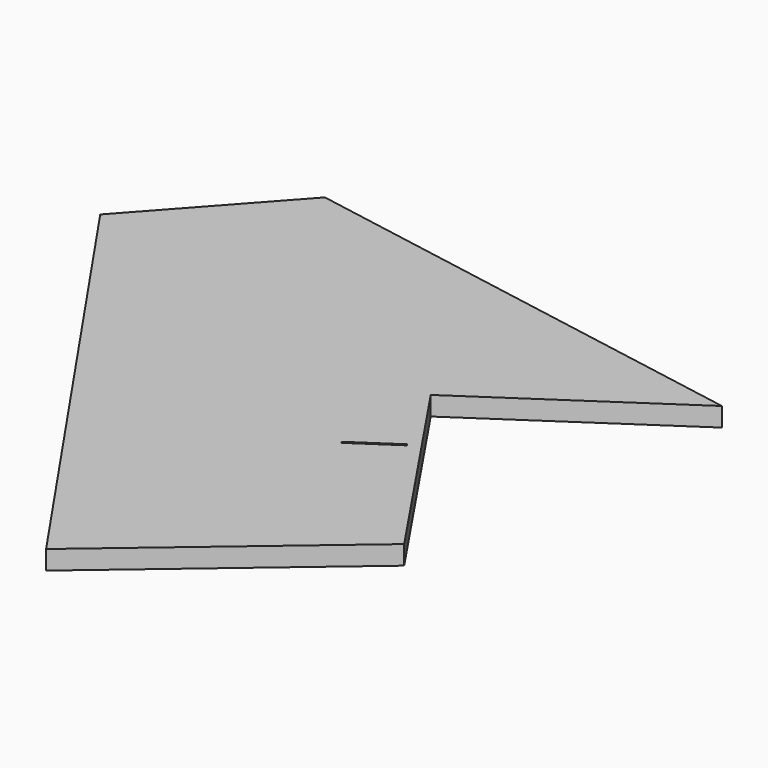
from build123d import *

# Parameters (mm, degrees)
PAD003_DEPTH = 5


with BuildPart() as part:
    # Sketch003 → Pad003 (new body)
    with BuildSketch(Plane.XY):
        with BuildLine():
            add(Edge.make_bspline(
                [(363.489628, -162.788216), (241.851853, -141.268772)],
                knots=[0, 0, 350.154309, 350.154309], degree=1))
            add(Edge.make_bspline(
                [(363.489628, -162.788216), (313.712684, -196.302104)],
                knots=[0, 0, 170.100588, 170.100588], degree=1))
            add(Edge.make_bspline(
                [(313.712684, -196.302104), (350.895461, -251.511825)],
                knots=[0, 0, 188.683359, 188.683359], degree=1))
            add(Edge.make_bspline(
                [(294.839074, -299.172102), (350.895461, -251.511825)],
                knots=[0, 0, 208.569461, 208.569461], degree=1))
            add(Edge.make_bspline(
                [(210.560464, -176.017382), (294.839074, -299.172102)],
                knots=[0, 0, 423.017754, 423.017754], degree=1))
            add(Edge.make_bspline(
                [(241.851853, -141.268772), (210.560464, -176.017382)],
                knots=[0, 0, 132.55165, 132.55165], degree=1))
        make_face()
        with BuildLine():
            add(Edge.make_bspline(
                [(323.661017, -216.445715), (312.442684, -223.995159)],
                knots=[0, 0, 38.330145, 38.330145], degree=1))
            add(Edge.make_bspline(
                [(312.442684, -223.995159), (312.724907, -224.383215)],
                knots=[0, 0, 1.360147, 1.360147], degree=1))
            add(Edge.make_bspline(
                [(312.724907, -224.383215), (323.907962, -216.869048)],
                knots=[0, 0, 38.19136, 38.19136], degree=1))
            add(Edge.make_bspline(
                [(323.907962, -216.869048), (323.661017, -216.445715)],
                knots=[0, 0, 1.389244, 1.389244], degree=1))
        make_face(mode=Mode.SUBTRACT)
    extrude(amount=PAD003_DEPTH)


solid = part.part
